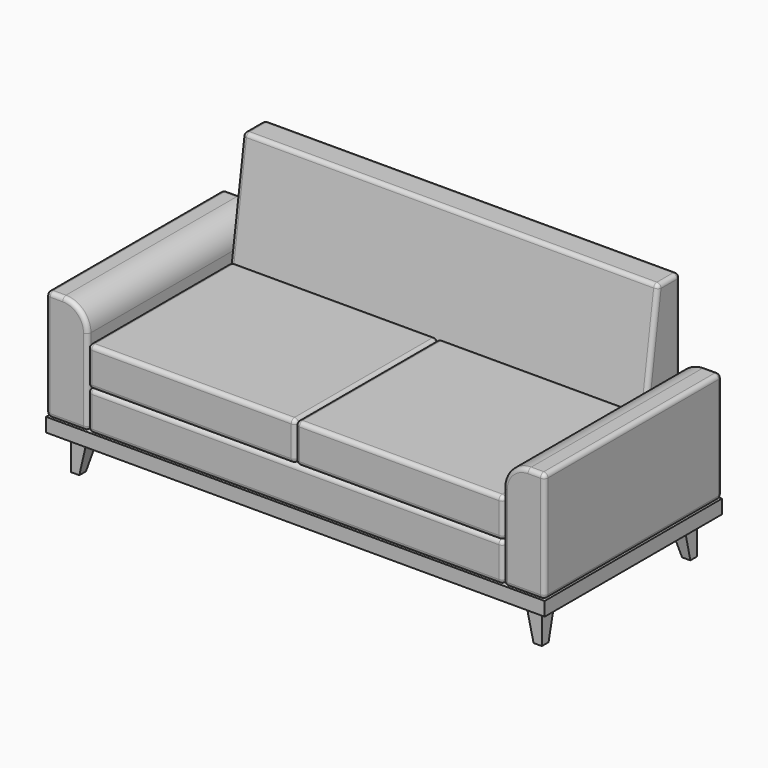
from build123d import *

# Parameters (mm, degrees)
SKETCH_W                 = 1800
SKETCH_H                 = 800
EXTRUDE_DEPTH            = 50
SKETCH002_W              = 60
SKETCH002_H              = 60
SKETCH001_W              = 30
SKETCH001_H              = 30
CLONE_PLACEMENT_ANGLE    = 270
CLONE001_PLACEMENT_ANGLE = 180
CLONE002_PLACEMENT_ANGLE = 90
SKETCH003_W              = 1500
SKETCH003_H              = 650
PAD_DEPTH                = 140
FILLET_R                 = 15
SKETCH004_W              = 750
SKETCH004_H              = 650
PAD001_DEPTH             = 140
FILLET001_R              = 15
ARRAY_X_COUNT            = 2
ARRAY_X_PITCH            = 750
PAD002_DEPTH             = 800
FILLET002_R              = 15
CLONE003_PLACEMENT_ANGLE = 180
PAD003_DEPTH             = 1500
FILLET003_R              = 15
BODY003_PLACEMENT_ANGLE  = 180


with BuildPart() as base_madeira:
    # Sketch → Extrude (new body)
    with BuildSketch(Plane.XY):
        with Locations((900, 400)):
            Rectangle(SKETCH_W, SKETCH_H)
    extrude(amount=EXTRUDE_DEPTH)


with BuildPart() as base_madeira_1:
    # Extrude placement: moved
    add(base_madeira.part.moved(Location((0, 0, 130))))


with BuildPart() as pe:
    # Sketch002 → Loft section 0
    with BuildSketch(Plane.XY.offset(130)):
        with Locations((30, 30)):
            Rectangle(SKETCH002_W, SKETCH002_H)
    # Sketch001 → Loft section 1
    with BuildSketch(Plane.XY):
        with Locations((15, 15)):
            Rectangle(SKETCH001_W, SKETCH001_H)
    loft()


with BuildPart() as pe_1:
    # Loft placement: moved
    add(pe.part.moved(Location((50, 50, 0))))


with BuildPart() as clone:
    # Clone base: copy of Pe
    add(pe_1.part)


with BuildPart() as clone_1:
    # Clone placement: moved
    add(clone.part.moved(Location((0, 800, 0))).rotate(Axis((0, 800, 0), (0, 0, 1)), CLONE_PLACEMENT_ANGLE))


with BuildPart() as clone001:
    # Clone001 base: copy of Clone
    add(clone_1.part)


with BuildPart() as clone001_1:
    # Clone001 placement: moved
    add(clone001.part.moved(Location((1800, 800, 0))).rotate(Axis((1800, 800, 0), (0, 0, -1)), CLONE001_PLACEMENT_ANGLE))


with BuildPart() as clone002:
    # Clone002 base: copy of Clone001
    add(clone001_1.part)


with BuildPart() as clone002_1:
    # Clone002 placement: moved
    add(clone002.part.moved(Location((1800, -1000, 0))).rotate(Axis((1800, -1000, 0), (0, 0, 1)), CLONE002_PLACEMENT_ANGLE))


with BuildPart() as obj1:
    # Sketch003 → Pad (new body)
    with BuildSketch(Plane.XY):
        with Locations((750, 325)):
            Rectangle(SKETCH003_W, SKETCH003_H)
    extrude(amount=PAD_DEPTH)

    # Fillet
    fillet_edges = [obj1.edges().sort_by_distance(p)[0] for p in [
        (0, 0, 70),
        (1500, 0, 70),
        (750, 0, 0),
        (750, 0, 140),
        (1500, 650, 70),
        (1500, 325, 0),
        (1500, 325, 140),
        (0, 650, 70),
        (750, 650, 0),
        (750, 650, 140),
        (0, 325, 0),
        (0, 325, 140),
    ]]
    fillet(fillet_edges, radius=FILLET_R)


with BuildPart() as obj1_1:
    # Body placement: moved
    add(obj1.part.moved(Location((150, 0, 180))))


with BuildPart() as array:
    # Sketch004 → Pad001 (new body)
    with BuildSketch(Plane.XY):
        with Locations((375, 325)):
            Rectangle(SKETCH004_W, SKETCH004_H)
    extrude(amount=PAD001_DEPTH)

    # Fillet001
    fillet001_edges = [array.edges().sort_by_distance(p)[0] for p in [
        (0, 0, 70),
        (750, 0, 70),
        (375, 0, 0),
        (375, 0, 140),
        (750, 650, 70),
        (750, 325, 0),
        (750, 325, 140),
        (0, 650, 70),
        (375, 650, 0),
        (375, 650, 140),
        (0, 325, 0),
        (0, 325, 140),
    ]]
    fillet(fillet001_edges, radius=FILLET001_R)

    # Array X: Array ×2


with BuildPart() as array_1:
    add(array.part)
    with Locations(*[(i * ARRAY_X_PITCH, 0, 0) for i in range(1, ARRAY_X_COUNT)]):
        add(array.part)


with BuildPart() as array_2:
    # Array placement: moved
    add(array_1.part.moved(Location((150, 0, 320))))


with BuildPart() as obj2:
    # Sketch005 → Pad002 (new body)
    with BuildSketch(Plane.XZ):
        with BuildLine():
            Line((0, 0), (150, 0))
            Line((150, 0), (150, 310))
            ThreePointArc((150, 310), (123.63961, 373.63961), (60, 400))
            Line((60, 400), (0, 400))
            Line((0, 400), (0, 0))
        make_face()
    extrude(amount=PAD002_DEPTH)

    # Fillet002
    fillet002_edges = [obj2.edges().sort_by_distance(p)[0] for p in [
        (0, -400, 0),
        (150, -400, 0),
        (75, 0, 0),
        (75, -800, 0),
        (150, -400, 310),
        (150, 0, 155),
        (150, -800, 155),
        (60, -400, 400),
        (123.63961, 0, 373.63961),
        (123.63961, -800, 373.63961),
        (0, -400, 400),
        (30, 0, 400),
        (30, -800, 400),
        (0, 0, 200),
        (0, -800, 200),
    ]]
    fillet(fillet002_edges, radius=FILLET002_R)


with BuildPart() as obj2_1:
    # Body002 placement: moved
    add(obj2.part.moved(Location((0, 800, 180))))


with BuildPart() as obj3:
    # Clone003 base: copy of obj2
    add(obj2_1.part)


with BuildPart() as obj3_1:
    # Clone003 placement: moved
    add(obj3.part.moved(Location((1800, 800, 0))).rotate(Axis((1800, 800, 0), (0, 0, 1)), CLONE003_PLACEMENT_ANGLE))


with BuildPart() as obj4:
    # Sketch006 → Pad003 (new body)
    with BuildSketch(Plane.YZ):
        Polygon((0, 0), (0, 670), (100, 670), (200, 0), align=None)
    extrude(amount=PAD003_DEPTH)

    # Fillet003
    fillet003_edges = [obj4.edges().sort_by_distance(p)[0] for p in [
        (1500, 0, 335),
        (1500, 50, 670),
        (1500, 150, 335),
        (1500, 100, 0),
        (750, 100, 670),
        (750, 200, 0),
        (0, 150, 335),
        (750, 0, 670),
        (0, 50, 670),
        (750, 0, 0),
        (0, 0, 335),
        (0, 100, 0),
    ]]
    fillet(fillet003_edges, radius=FILLET003_R)


with BuildPart() as obj4_1:
    # Body003 placement: moved
    add(obj4.part.moved(Location((1650, 800, 180))).rotate(Axis((1650, 800, 180), (0, 0, 1)), BODY003_PLACEMENT_ANGLE))


solid = Compound([base_madeira_1.part, pe_1.part, clone_1.part, clone001_1.part, clone002_1.part, obj1_1.part, array_2.part, obj2_1.part, obj3_1.part, obj4_1.part])
